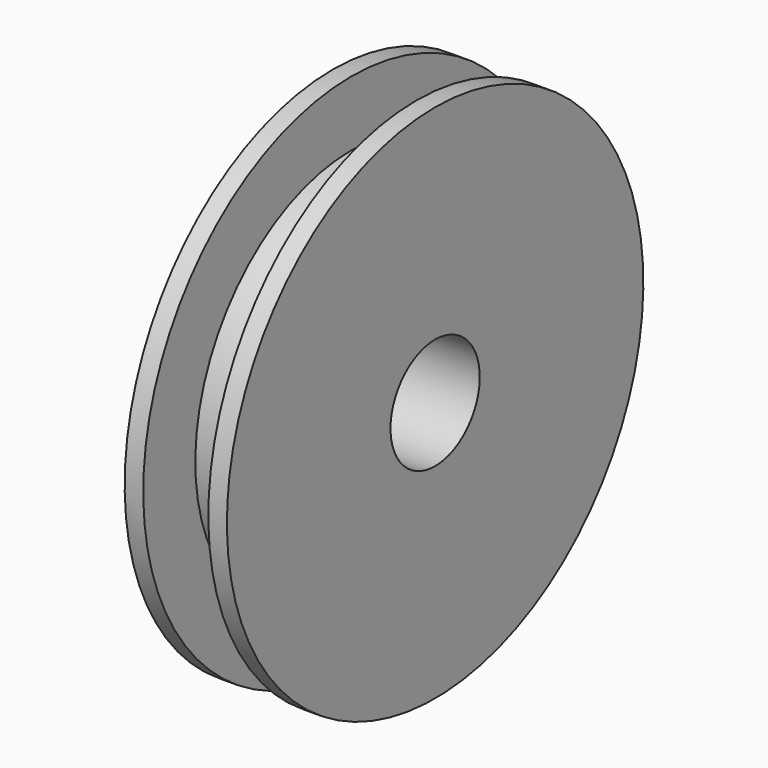
from build123d import *

# Parameters (mm, degrees)
F0_W = 7
F0_H = 15


with BuildPart() as f1:
    # F0 (on Front) → F1 (revolve)
    with BuildSketch(Plane.XZ):
        with Locations((-3.5, 17.78259)):
            Rectangle(F0_W, F0_H)
        Polygon((-7, 32.28259), (-9, 32.28259), (-9, 10.28259), (-7, 10.28259), (-7, 25.28259), align=None)
        Polygon((0, 32.28259), (0, 25.28259), (0, 10.28259), (2, 10.28259), (2, 32.28259), align=None)
    revolve(axis=Axis((-3.345939, 0, 4.28259), (1, 0, 0)))


solid = f1.part
